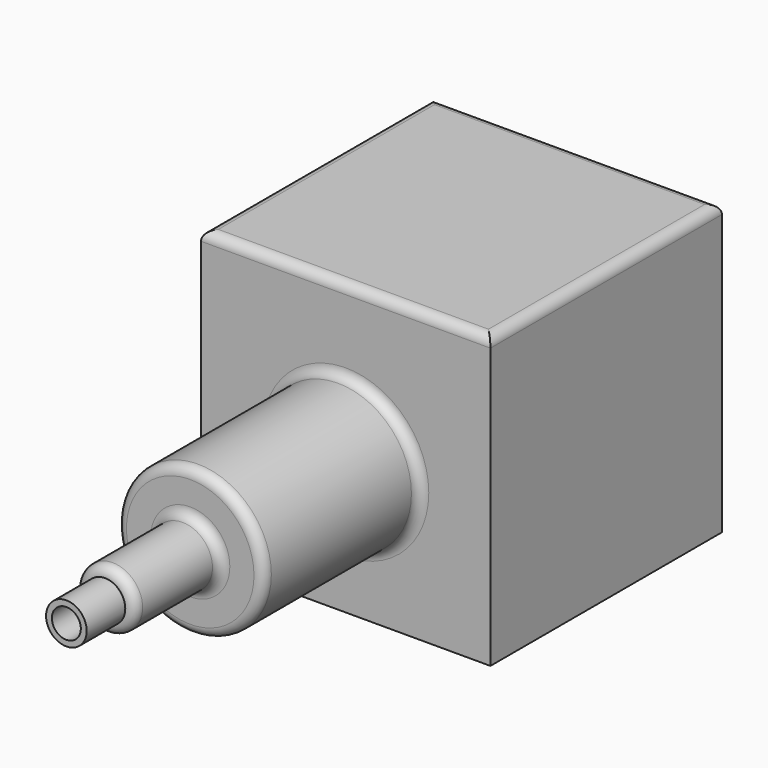
from build123d import *

# Parameters (mm, degrees)
F0_W      = 152.4
F0_H      = 152.4
F1_DEPTH  = 152.4
F2_R      = 5.08
F3_R      = 38.6645331573
F4_DEPTH  = 102.362
F5_R      = 15.7820289437
F6_DEPTH  = 56.134
F7_R      = 5.08
F9_D      = 15.24
F10_DEPTH = 25.4


with BuildPart() as f1:
    # F0 (on Top) → F1 (new body)
    with BuildSketch(Plane.XY):
        Rectangle(F0_W, F0_H)
    extrude(amount=F1_DEPTH)

    # F2
    f2_edges = [f1.edges().sort_by_distance(p)[0] for p in [
        (76.2, 0, 152.4),
        (0, 76.2, 152.4),
        (-76.2, 0, 152.4),
        (0, -76.2, 152.4),
    ]]
    fillet(f2_edges, radius=F2_R)

    # F3 (on face) → F4 (join)
    with BuildSketch(Plane.XZ.offset(76.2)):
        with Locations((0, 69.6934089065)):
            Circle(F3_R)
    extrude(amount=F4_DEPTH)

    # F5 (on face) → F6 (join)
    with BuildSketch(Plane.XZ.offset(178.562)):
        with Locations((0, 69.6934089065)):
            Circle(F5_R)
    extrude(amount=F6_DEPTH)

    # F7
    f7_edges = [f1.edges().sort_by_distance(p)[0] for p in [
        (-15.782029, -234.696, 69.693409),
        (-15.782029, -178.562, 69.693409),
        (-38.664533, -178.562, 69.693409),
        (-38.664533, -76.2, 69.693409),
    ]]
    fillet(f7_edges, radius=F7_R)

    # F9 (through all)
    with Locations(Plane.XZ.offset(234.696)):
        with Locations((0, 69.6934089065)):
            Hole(F9_D / 2)

    # F10 (add): a face of the model
    f10_faces = [f1.faces().sort_by_distance(p)[0] for p in [
        (-10.3993298541, -234.696, 69.6934089065),
    ]]
    extrude(f10_faces, amount=F10_DEPTH)


solid = f1.part
